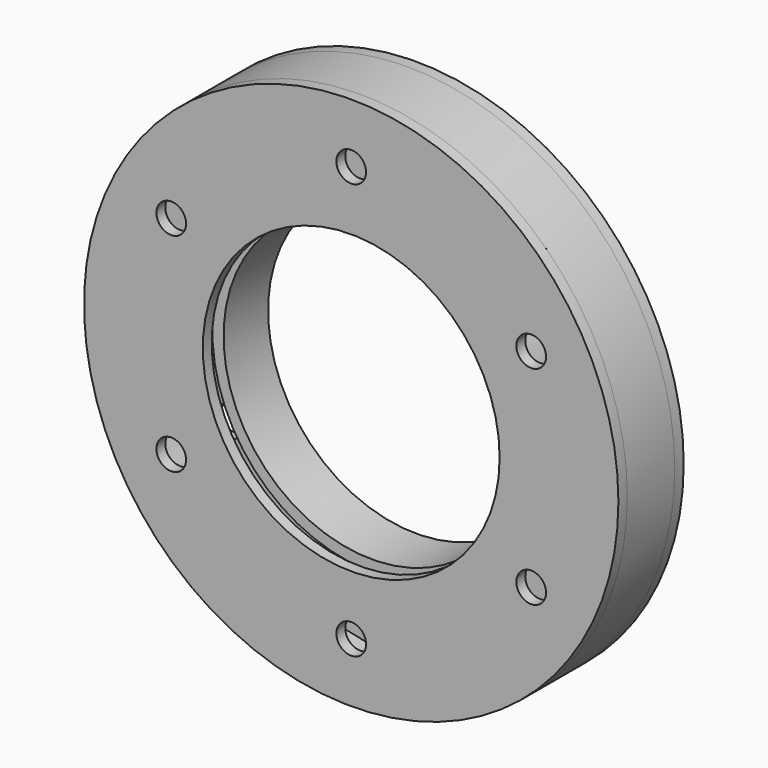
from build123d import *

# Parameters (mm, degrees)
F0_R     = 36
F0_R_2   = 34.5
F0_R_3   = 21.5
F0_R_4   = 20
F1_DEPTH = 1.5
F2_DEPTH = 6
F3_DEPTH = 8
F4_D     = 4
F5_R     = 36
F5_R_2   = 34.5
F5_R_3   = 20
F6_DEPTH = 1.5
F7_D     = 4


with BuildPart() as f1:
    # F0 (on Front) → F1 (new body)
    with BuildSketch(Plane.XZ):
        Circle(F0_R)
        Circle(F0_R_2, mode=Mode.SUBTRACT)
        Circle(F0_R_2)
        Circle(F0_R_3, mode=Mode.SUBTRACT)
        Circle(F0_R_2)
        Circle(F0_R_3, mode=Mode.SUBTRACT)
        Circle(F0_R_2)
        Circle(F0_R_3, mode=Mode.SUBTRACT)
        Circle(F0_R_3)
        Circle(F0_R_4, mode=Mode.SUBTRACT)
    extrude(amount=-F1_DEPTH)

    # F0 (on Front) → F2 (join)
    with BuildSketch(Plane.XZ):
        Circle(F0_R_3)
        Circle(F0_R_4, mode=Mode.SUBTRACT)
    extrude(amount=F2_DEPTH)

    # F0 (on Front) → F3 (join)
    with BuildSketch(Plane.XZ):
        Circle(F0_R)
        Circle(F0_R_2, mode=Mode.SUBTRACT)
    extrude(amount=F3_DEPTH)

    # F4 (through all)
    with Locations(Plane.XZ):
        with Locations((0, 28), (24.248711306, 14), (24.248711306, -14), (0, -28), (-24.248711306, -14), (-24.248711306, 14)):
            Hole(F4_D / 2)


with BuildPart() as f6:
    # F5 (on face) → F6 (new body)
    with BuildSketch(Plane.XZ.offset(8)):
        Circle(F5_R)
        Circle(F5_R_2, mode=Mode.SUBTRACT)
        Circle(F5_R_2)
        Circle(F5_R_3, mode=Mode.SUBTRACT)
    extrude(amount=F6_DEPTH)

    # F7 (through all)
    with Locations(Plane(origin=(0, -8, 0), x_dir=(1, 0, 0), z_dir=(0, 1, 0))):
        with Locations((24.248711306, -14), (24.248711306, 14), (0, 28), (-24.248711306, 14), (-24.248711306, -14), (0, -28)):
            Hole(F7_D / 2)


solid = Compound([f1.part, f6.part])
